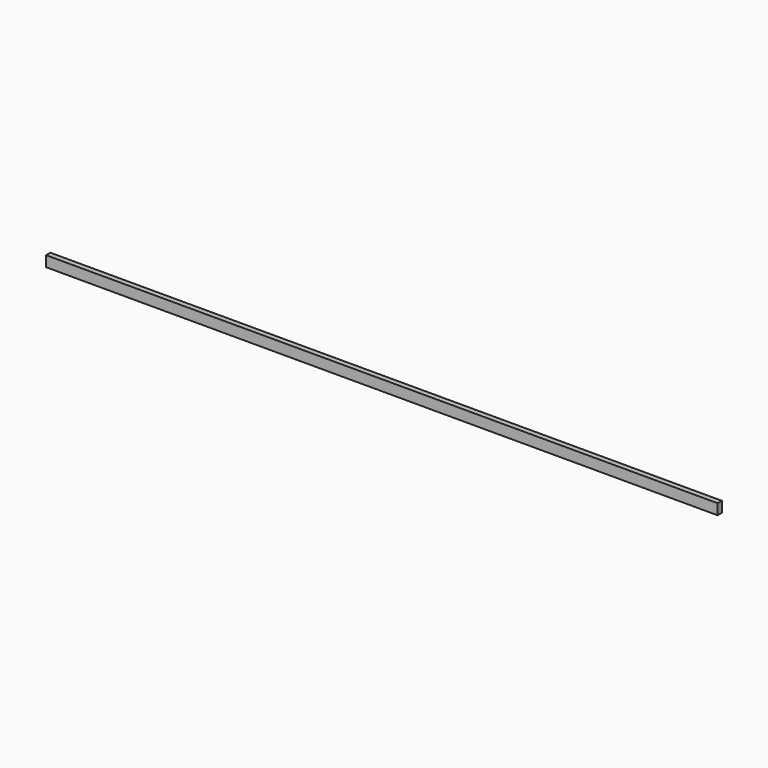
from build123d import *

# Parameters (mm, degrees)
SKETCH_W  = 2404.65
SKETCH_H  = 38.1
PAD_DEPTH = 19.05


with BuildPart() as part:
    # Sketch → Pad (new body)
    with BuildSketch(Plane.XZ):
        with Locations((1202.325, 19.05)):
            Rectangle(SKETCH_W, SKETCH_H)
    extrude(amount=PAD_DEPTH)


solid = part.part
